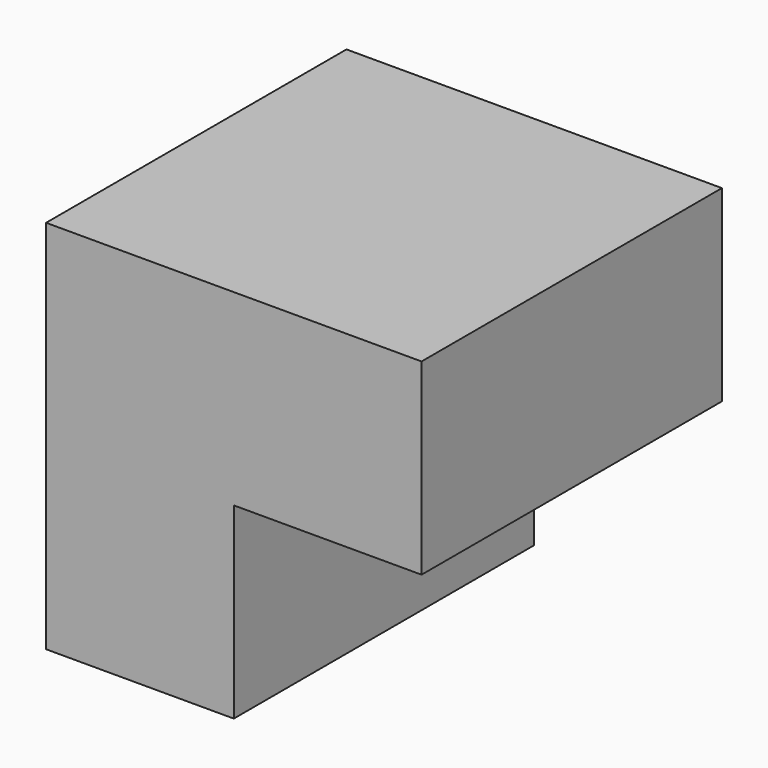
from build123d import *

# Parameters (mm, degrees)
F0_W      = 19.05
F0_H      = 19.05
F1_DEPTH  = 19.05
F1_FACE_W = 19.05
F1_FACE_H = 19.05
F2_DEPTH  = 19.05
F2_FACE_W = 19.05
F2_FACE_H = 38.1
F3_DEPTH  = 19.05
F4_W      = 38.1
F4_H      = 19.05
F5_DEPTH  = 19.05


with BuildPart() as f1:
    # F0 (on Top) → F1 (new body)
    with BuildSketch(Plane.XY):
        with Locations((9.525, 9.525)):
            Rectangle(F0_W, F0_H)
    extrude(amount=F1_DEPTH)

    # F1_face (on face) → F2 (join)
    with BuildSketch(Plane(origin=(9.525, 19.05, 9.525), x_dir=(-1, 0, 0), z_dir=(0, 1, 0))):
        Rectangle(F1_FACE_W, F1_FACE_H)
    extrude(amount=F2_DEPTH)

    # F2_face (on face) → F3 (join)
    with BuildSketch(Plane(origin=(9.525, 19.05, 19.05), x_dir=(1, 0, 0), z_dir=(0, 0, 1))):
        Rectangle(F2_FACE_W, F2_FACE_H)
    extrude(amount=F3_DEPTH)

    # F4 (on face) → F5 (join)
    with BuildSketch(Plane.YZ.offset(19.05)):
        with Locations((19.05, 28.575)):
            Rectangle(F4_W, F4_H)
    extrude(amount=F5_DEPTH)


solid = f1.part
